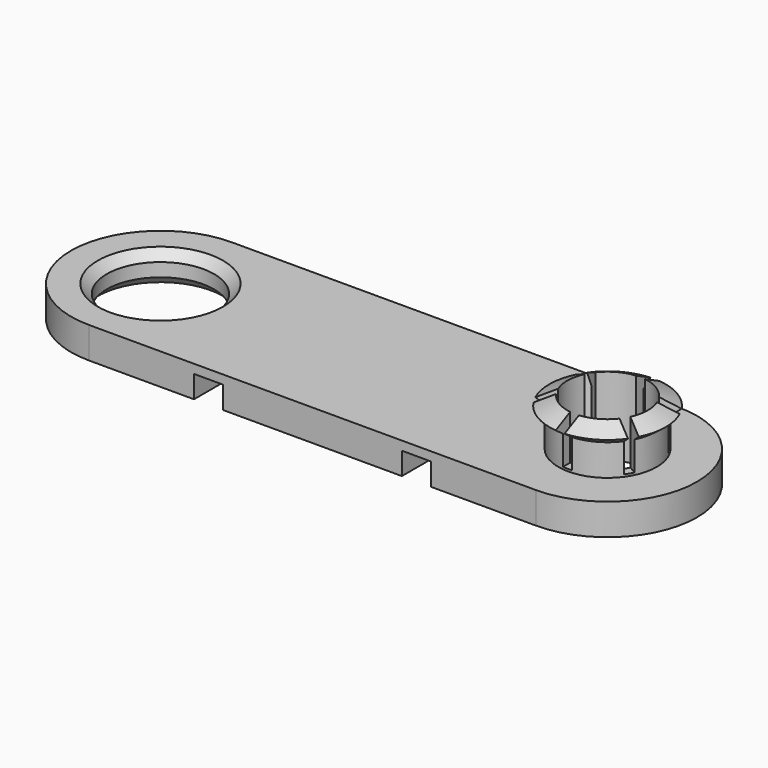
from build123d import *

# Parameters (mm, degrees)
SKETCH007_W     = 1
SKETCH007_H     = 15
PAD002_DEPTH    = 10
ARRAY_COUNT     = 6
SKETCH005_R     = 6.5
SKETCH004_R     = 4.5
SKETCH003_R     = 5.5
SKETCH002_R     = 6.5
SKETCH_R        = 6
PAD_DEPTH       = 1.75
SKETCH001_R     = 5.5
PAD001_DEPTH    = 3.5
SKETCH006_R     = 4.5
POCKET_DEPTH    = 8.751
CHAMFER_SIZE    = 1
SKETCH008_W     = 3.25
SKETCH008_H     = 1.5
POCKET001_DEPTH = 20.001
SKETCH009_W     = 3.25
SKETCH009_H     = 10
POCKET002_DEPTH = 1


with BuildPart() as array:
    # Sketch007 → Pad002 (new body)
    with BuildSketch(Plane.XY.offset(2)):
        with Locations((25.113381, 7.5)):
            Rectangle(SKETCH007_W, SKETCH007_H)
    extrude(amount=PAD002_DEPTH)

    # Array: Array ×6 about axis
    array_axis = Axis((25, 0, 0), (0, 0, 1))


with BuildPart() as array_1:
    add(array.part)
    for i in range(1, ARRAY_COUNT):
        add(array.part.rotate(array_axis, i * 360 / ARRAY_COUNT))


with BuildPart() as loft001:
    # Sketch005 → Loft001 section 0
    with BuildSketch(Plane.XY.offset(6)):
        with Locations((25, 0)):
            Circle(SKETCH005_R)
    # Sketch004 → Loft001 section 1
    with BuildSketch(Plane.XY.offset(7)):
        with Locations((25, 0)):
            Circle(SKETCH004_R)
    loft(ruled=True)


with BuildPart() as loft_body:
    # Sketch003 → Loft section 0
    with BuildSketch(Plane.XY.offset(5.25)):
        with Locations((25, 0)):
            Circle(SKETCH003_R)
    # Sketch002 → Loft section 1
    with BuildSketch(Plane.XY.offset(6)):
        with Locations((25, 0)):
            Circle(SKETCH002_R)
    loft(ruled=True)


with BuildPart() as pocket002:
    # Sketch → Pad (new body, symmetric)
    with BuildSketch(Plane.XY):
        with BuildLine():
            ThreePointArc((-25, 10), (-35, 0), (-25, -10))
            Line((-25, -10), (25, -10))
            ThreePointArc((25, -10), (35, 0), (25, 10))
            Line((-25, 10), (25, 10))
        make_face()
        with Locations((-25, 0)):
            Circle(SKETCH_R, mode=Mode.SUBTRACT)
    extrude(amount=PAD_DEPTH, both=True)

    # Sketch001 → Pad001 (new body)
    with BuildSketch(Plane.XY.offset(1.75)):
        with Locations((25, 0)):
            Circle(SKETCH001_R)
    extrude(amount=PAD001_DEPTH)

    # Fusion: union Loft body
    add(loft_body.part)

    # Fusion001: union Loft001
    add(loft001.part)

    # Sketch006 → Pocket (cut, through all)
    with BuildSketch(Plane.XY.offset(7)):
        with Locations((25, 0)):
            Circle(SKETCH006_R)
    extrude(amount=-POCKET_DEPTH, mode=Mode.SUBTRACT)

    # Cut: cut Array
    add(array_1.part, mode=Mode.SUBTRACT)

    # Chamfer
    chamfer_edges = [pocket002.edges().sort_by_distance(p)[0] for p in [
        (-31, 0, 1.75),
        (-31, 0, -1.75),
    ]]
    chamfer(chamfer_edges, length=CHAMFER_SIZE)

    # Sketch008 → Pocket001 (cut, through all)
    with BuildSketch(Plane.XZ.offset(10)):
        with Locations((-11.625, 0)):
            Rectangle(SKETCH008_W, SKETCH008_H)
        with Locations((11.625, 0)):
            Rectangle(SKETCH008_W, SKETCH008_H)
    extrude(amount=-POCKET001_DEPTH, mode=Mode.SUBTRACT)

    # Sketch009 → Pocket002 (cut)
    with BuildSketch(Plane(origin=(0, 0, -1.75), x_dir=(1, 0, 0), z_dir=(0, 0, -1))):
        with Locations((-11.625, 7.5)):
            Rectangle(SKETCH009_W, SKETCH009_H)
        with Locations((-11.625, -7.5)):
            Rectangle(SKETCH009_W, SKETCH009_H)
        with Locations((11.625, 7.5)):
            Rectangle(SKETCH009_W, SKETCH009_H)
        with Locations((11.625, -7.5)):
            Rectangle(SKETCH009_W, SKETCH009_H)
    extrude(amount=-POCKET002_DEPTH, mode=Mode.SUBTRACT)


solid = pocket002.part
